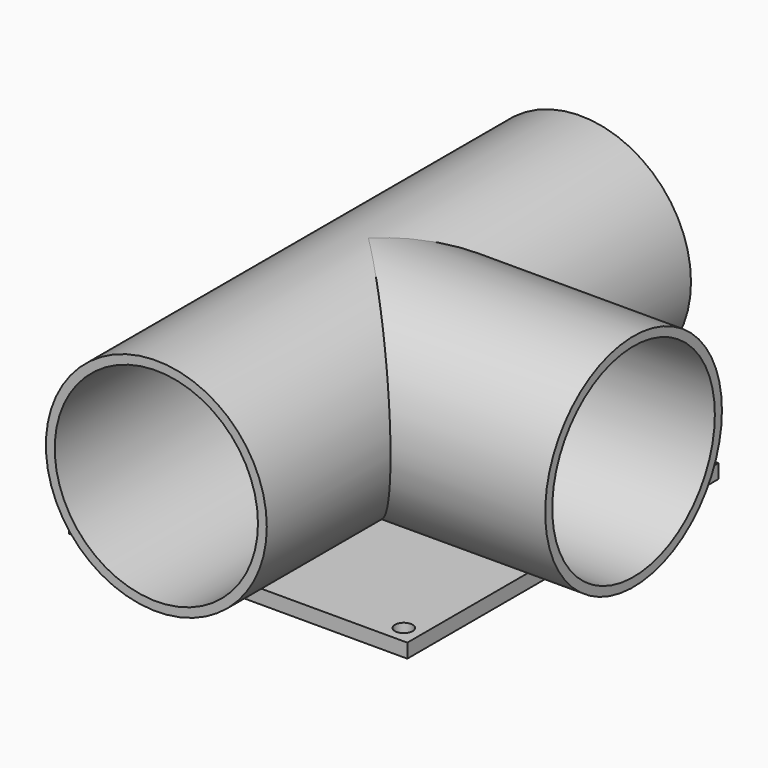
from build123d import *

# Parameters (mm, degrees)
F0_R      = 31.75
F0_R_2    = 29.21
F1_DEPTH  = 76.2
F2_R      = 31.75
F2_R_2    = 29.21
F3_DEPTH  = 76.2
F4_DEPTH  = 52.832
F5_DEPTH  = 44.45
F7_W      = 97.233793
F7_H      = 111.76
F8_DEPTH  = 2.032
F9_R      = 2.54
F10_DEPTH = 25.4


with BuildPart() as f1:
    # F0 (on Front) → F1 (new body, symmetric)
    with BuildSketch(Plane.XZ):
        Circle(F0_R)
        Circle(F0_R_2, mode=Mode.SUBTRACT)
    extrude(amount=F1_DEPTH, both=True)

    # F2 (on Right) → F3 (join)
    with BuildSketch(Plane.YZ):
        Circle(F2_R)
        Circle(F2_R_2, mode=Mode.SUBTRACT)
    extrude(amount=F3_DEPTH)

    # F0 (on Front) → F4 (cut, symmetric)
    with BuildSketch(Plane.XZ):
        Circle(F0_R_2)
    extrude(amount=F4_DEPTH, both=True, mode=Mode.SUBTRACT)

    # F2 (on Right) → F5 (cut)
    with BuildSketch(Plane.YZ):
        Circle(F2_R_2)
    extrude(amount=F5_DEPTH, mode=Mode.SUBTRACT)

    # F7 (on offset) → F8 (join, symmetric)
    with BuildSketch(Plane.XY.offset(-31.75)):
        with Locations((7.263103, 0)):
            Rectangle(F7_W, F7_H)
    extrude(amount=F8_DEPTH, both=True)

    # F9 (on face) → F10 (cut)
    with BuildSketch(Plane.XY.offset(-29.718)):
        with Locations((-36.273793, 50.8)):
            Circle(F9_R)
        with Locations((50.8, 50.8)):
            Circle(F9_R)
        with Locations((50.8, -50.8)):
            Circle(F9_R)
        with Locations((-36.273793, -50.8)):
            Circle(F9_R)
    extrude(amount=-F10_DEPTH, mode=Mode.SUBTRACT)


solid = f1.part
